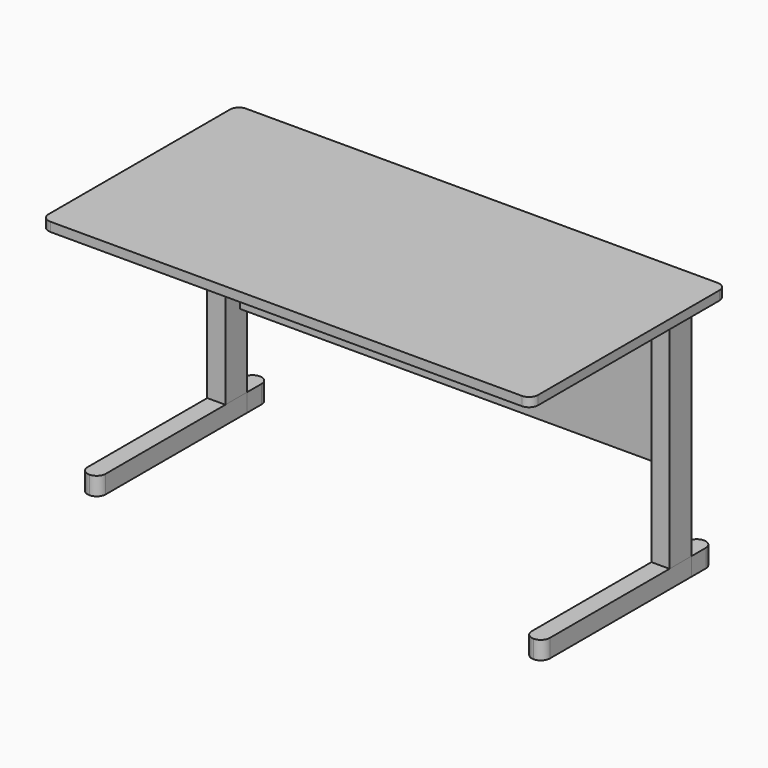
from build123d import *

# Parameters (mm, degrees)
F1_DEPTH  = 25.4
F2_W      = 50.8
F2_H      = 381
F3_DEPTH  = 25.4
F4_DEPTH  = 25.4
F5_W      = 50.8
F5_H      = 50.8
F6_DEPTH  = 622.3
F7_W      = 50.8
F7_H      = 25.4
F8_DEPTH  = 622.3
F10_DEPTH = 50.8
F12_DEPTH = 50.8
F14_DEPTH = 50.8
F16_DEPTH = 50.8
F17_W     = 1193.8
F17_H     = 406.4
F18_DEPTH = 25.4


with BuildPart() as f1:
    # F0 (on Top) → F1 (new body)
    with BuildSketch(Plane.XY):
        with BuildLine():
            ThreePointArc((-705.673662, -249.545241), (-698.234174, -267.505753), (-680.273662, -274.945241))
            Line((-680.273662, -274.945241), (640.526338, -274.945241))
            ThreePointArc((640.526338, -274.945241), (658.486851, -267.505753), (665.926338, -249.545241))
            Line((665.926338, -249.545241), (665.926338, 385.454759))
            ThreePointArc((665.926338, 385.454759), (658.486851, 403.415271), (640.526338, 410.854759))
            Line((640.526338, 410.854759), (-680.273662, 410.854759))
            ThreePointArc((-680.273662, 410.854759), (-698.234174, 403.415271), (-705.673662, 385.454759))
            Line((-705.673662, 385.454759), (-705.673662, -249.545241))
        make_face()
    extrude(amount=-F1_DEPTH)

    # F2 (on face) → F3 (join)
    with BuildSketch(Plane(origin=(0, 0, -25.4), x_dir=(1, 0, 0), z_dir=(0, 0, -1))):
        with Locations((-642.173662, -67.954759)):
            Rectangle(F2_W, F2_H)
        with Locations((602.426338, -67.954759)):
            Rectangle(F2_W, F2_H)
    extrude(amount=F3_DEPTH)

    # F2 (on face) → F4 (join)
    with BuildSketch(Plane(origin=(0, 0, -25.4), x_dir=(1, 0, 0), z_dir=(0, 0, -1))):
        with Locations((-642.173662, -67.954759)):
            Rectangle(F2_W, F2_H)
        with Locations((602.426338, -67.954759)):
            Rectangle(F2_W, F2_H)
    extrude(amount=F4_DEPTH)

    # F5 (on face) → F6 (join)
    with BuildSketch(Plane(origin=(0, 0, -25.4), x_dir=(1, 0, 0), z_dir=(0, 0, -1))):
        with Locations((-642.173662, -283.854759)):
            Rectangle(F5_W, F5_H)
        with Locations((602.426338, -283.854759)):
            Rectangle(F5_W, F5_H)
    extrude(amount=F6_DEPTH)

    # F7 (on face) → F8 (join)
    with BuildSketch(Plane(origin=(0, 0, -25.4), x_dir=(1, 0, 0), z_dir=(0, 0, -1))):
        with Locations((-642.173662, -321.954759)):
            Rectangle(F7_W, F7_H)
        with Locations((602.426338, -321.954759)):
            Rectangle(F7_W, F7_H)
    extrude(amount=F8_DEPTH)

    # F17 (on face) → F18 (join)
    with BuildSketch(Plane(origin=(0, 334.654759, 0), x_dir=(-1, 0, 0), z_dir=(0, 1, 0))):
        with Locations((19.873662, -228.6)):
            Rectangle(F17_W, F17_H)
    extrude(amount=-F18_DEPTH)


with BuildPart() as f10:
    # F9 (on face) → F10 (new body)
    with BuildSketch(Plane(origin=(0, 0, -647.7), x_dir=(1, 0, 0), z_dir=(0, 0, -1))):
        with BuildLine():
            Line((-616.773662, -334.654759), (-667.573662, -334.654759))
            Line((-667.573662, -334.654759), (-667.573662, -385.454759))
            ThreePointArc((-667.573662, -385.454759), (-660.134174, -403.415271), (-642.173662, -410.854759))
            ThreePointArc((-642.173662, -410.854759), (-624.213149, -403.415271), (-616.773662, -385.454759))
            Line((-616.773662, -385.454759), (-616.773662, -334.654759))
        make_face()
    extrude(amount=F10_DEPTH)


with BuildPart() as f12:
    # F11 (on face) → F12 (new body)
    with BuildSketch(Plane(origin=(0, 0, -647.7), x_dir=(1, 0, 0), z_dir=(0, 0, -1))):
        with BuildLine():
            Line((-667.573662, 160.645241), (-667.573662, -334.654759))
            Line((-667.573662, -334.654759), (-616.773662, -334.654759))
            Line((-616.773662, -334.654759), (-616.773662, 160.645241))
            ThreePointArc((-616.773662, 160.645241), (-624.213149, 178.605753), (-642.173662, 186.045241))
            ThreePointArc((-642.173662, 186.045241), (-660.134174, 178.605753), (-667.573662, 160.645241))
        make_face()
    extrude(amount=F12_DEPTH)


with BuildPart() as f14:
    # F13 (on face) → F14 (new body)
    with BuildSketch(Plane(origin=(0, 0, -647.7), x_dir=(1, 0, 0), z_dir=(0, 0, -1))):
        with BuildLine():
            Line((627.826338, -334.654759), (577.026338, -334.654759))
            Line((577.026338, -334.654759), (577.026338, -385.454759))
            ThreePointArc((577.026338, -385.454759), (584.465826, -403.415271), (602.426338, -410.854759))
            ThreePointArc((602.426338, -410.854759), (620.386851, -403.415271), (627.826338, -385.454759))
            Line((627.826338, -385.454759), (627.826338, -334.654759))
        make_face()
    extrude(amount=F14_DEPTH)


with BuildPart() as f16:
    # F15 (on face) → F16 (new body)
    with BuildSketch(Plane(origin=(0, 0, -647.7), x_dir=(1, 0, 0), z_dir=(0, 0, -1))):
        with BuildLine():
            Line((577.026338, 160.645241), (577.026338, -334.654759))
            Line((577.026338, -334.654759), (627.826338, -334.654759))
            Line((627.826338, -334.654759), (627.826338, 160.645241))
            ThreePointArc((627.826338, 160.645241), (620.386851, 178.605753), (602.426338, 186.045241))
            ThreePointArc((602.426338, 186.045241), (584.465826, 178.605753), (577.026338, 160.645241))
        make_face()
    extrude(amount=F16_DEPTH)


solid = Compound([f1.part, f10.part, f12.part, f14.part, f16.part])
